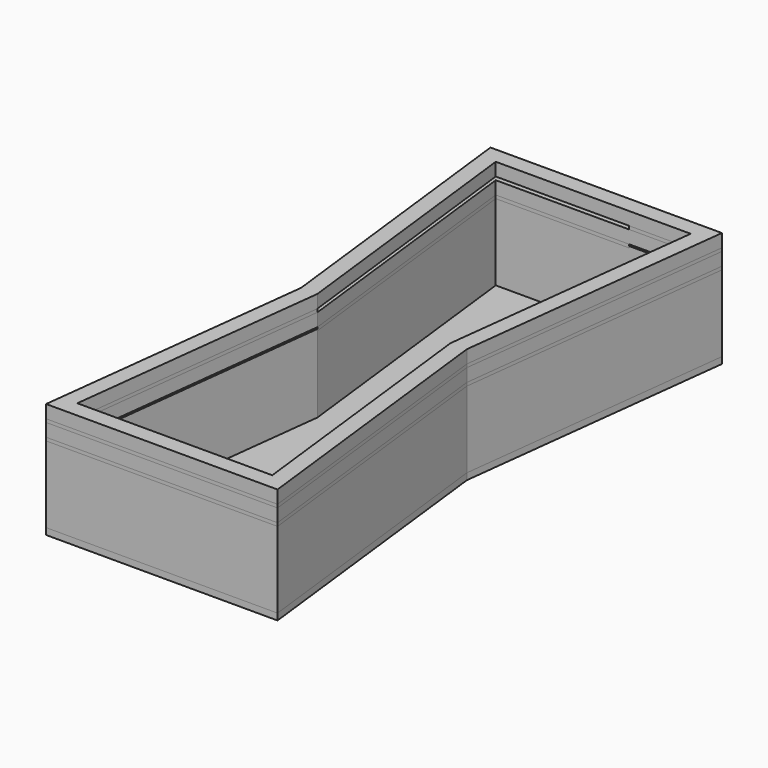
from build123d import *

# Parameters (mm, degrees)
F1_DEPTH  = 101.6
F2_DEPTH  = 1219.2
F5_DEPTH  = 25.4
F7_DEPTH  = 203.2
F10_DEPTH = 50.8
F13_DEPTH = 203.2


with BuildPart() as f1:
    # F0 (on Top) → F1 (new body)
    with BuildSketch(Plane.XY):
        Polygon((-1297.1585436, 0.0021844), (-1809.739078, -4343.4039624), (1809.739078, -4343.4039624), (1297.158569, 0.0021844), (1809.739078, 4343.4039878), (-1809.739078, 4343.4039878), align=None)
        Polygon((-1041.3984252, 0.0007366), (-1523.9984252, 4089.4007366), (1524.0015748, 4089.4007366), (1041.4015748, 0.0007366), (1524.0015748, -4089.3992634), (-1523.9984252, -4089.3992634), align=None, mode=Mode.SUBTRACT)
        Polygon((1524.0015748, 4089.4007366), (-1523.9984252, 4089.4007366), (-1041.3984252, 0.0007366), (-1523.9984252, -4089.3992634), (1524.0015748, -4089.3992634), (1041.4015748, 0.0007366), align=None)
    extrude(amount=-F1_DEPTH)


with BuildPart() as f2:
    # F0 (on Top) → F2 (new body)
    with BuildSketch(Plane.XY):
        Polygon((-1297.1585436, 0.0021844), (-1809.739078, -4343.4039624), (1809.739078, -4343.4039624), (1297.158569, 0.0021844), (1809.739078, 4343.4039878), (-1809.739078, 4343.4039878), align=None)
        Polygon((-1041.3984252, 0.0007366), (-1523.9984252, 4089.4007366), (1524.0015748, 4089.4007366), (1041.4015748, 0.0007366), (1524.0015748, -4089.3992634), (-1523.9984252, -4089.3992634), align=None, mode=Mode.SUBTRACT)
    extrude(amount=F2_DEPTH)


with BuildPart() as f5:
    # F4 (on offset) → F5 (new body, symmetric)
    with BuildSketch(Plane.XY.offset(1219.2)):
        Polygon((-1297.1585436, 0.0021844), (-1809.739078, -4343.4039624), (1809.739078, -4343.4039624), (1297.158569, 0.0021844), (1809.739078, 4343.4039878), (-1809.739078, 4343.4039878), align=None)
        Polygon((-1609.719158, -4165.6017018), (-1118.1268214, 0.0021844), (-1041.3985960579, 0.0007366032), (-1041.3985106292, 0.0014604999), (-1523.9984252, 4089.4007366), (558.8015748, 4089.4007366), (557.834927, 4165.54666), (1608.3599278, 4165.54666), (1116.2537492, 0.002921), (1039.9960912, 0.002921), (1524.0015748, -4089.3992634), (-558.7983998, -4089.3992634), (-558.7983998, -4165.6017018), align=None, mode=Mode.SUBTRACT)
    extrude(amount=F5_DEPTH, both=True)


with BuildPart() as f7:
    # F6 (on face) → F7 (new body)
    with BuildSketch(Plane.XY.offset(1244.6)):
        Polygon((-1297.1585436, 0.0021844), (-1809.739078, -4343.4039624), (1809.739078, -4343.4039624), (1297.158569, 0.0021844), (1809.739078, 4343.4039878), (-1809.739078, 4343.4039878), align=None)
        Polygon((-1041.3984252, 0.0007366), (-1523.9984252, 4089.4007366), (1524.0015748, 4089.4007366), (1041.4015748, 0.0007366), (1524.0015748, -4089.3992634), (-1523.9984252, -4089.3992634), align=None, mode=Mode.SUBTRACT)
    extrude(amount=F7_DEPTH)


with BuildPart() as f10:
    # F9 (on offset) → F10 (new body)
    with BuildSketch(Plane.XY.offset(1447.8)):
        Polygon((-1297.1585436, 0.0021844), (-1809.739078, -4343.4039624), (1809.739078, -4343.4039624), (1297.158569, 0.0021844), (1809.739078, 4343.4039878), (-1809.739078, 4343.4039878), align=None)
        Polygon((-1041.3985960579, 0.0007366032), (-1118.1268214, 0.0021844), (-1609.719158, 4165.6017018), (558.8015748, 4165.6017018), (558.8015748, 4089.4007366), (1524.0015748, 4089.4007366), (1039.9960912, 0.002921), (1524.0015748, -4089.3992634), (-558.7983998, -4089.3992634), (-1523.9984252, -4089.3992634), align=None, mode=Mode.SUBTRACT)
    extrude(amount=F10_DEPTH)


with BuildPart() as f13:
    # F12 (on offset) → F13 (new body)
    with BuildSketch(Plane.XY.offset(1498.6)):
        Polygon((-1297.1585436, 0.0021844), (-1809.739078, -4343.4039624), (1809.739078, -4343.4039624), (1297.158569, 0.0021844), (1809.739078, 4343.4039878), (-1809.739078, 4343.4039878), align=None)
        Polygon((-1041.3984252, 0.0007366), (-1523.9984252, 4089.4007366), (1524.0015748, 4089.4007366), (1041.4015748, 0.0007366), (1524.0015748, -4089.3992634), (-1523.9984252, -4089.3992634), align=None, mode=Mode.SUBTRACT)
    extrude(amount=F13_DEPTH)


solid = Compound([f1.part, f2.part, f5.part, f7.part, f10.part, f13.part])
